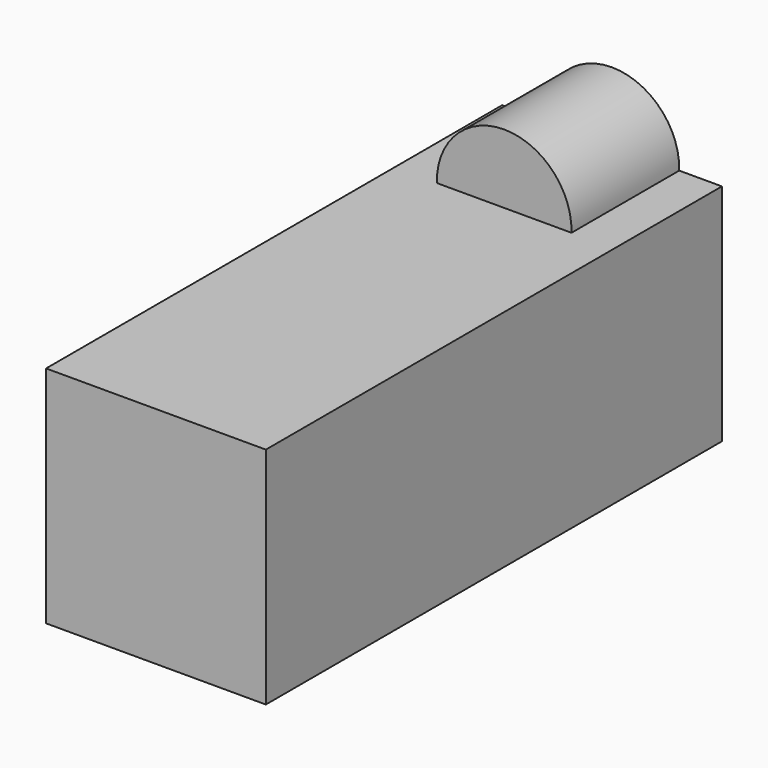
from build123d import *

# Parameters (mm, degrees)
F0_W     = 24.481318
F0_H     = 25
F1_DEPTH = 63.5
F2_R     = 7.5
F3_DEPTH = 15
F4_R     = 7.5
F5_DEPTH = 15


with BuildPart() as f1:
    # F0 (on Front) → F1 (new body)
    with BuildSketch(Plane.XZ):
        with Locations((12.240659, 12.5)):
            Rectangle(F0_W, F0_H)
    extrude(amount=F1_DEPTH)

    # F2 (on Front) → F3 (join)
    with BuildSketch(Plane.XZ):
        with Locations((12.228578, 25.193848)):
            Circle(F2_R)
    extrude(amount=F3_DEPTH)

    # F4 (on Front) → F5 (join)
    with BuildSketch(Plane.XZ):
        with Locations((8.243513, 0)):
            Circle(F4_R)
    extrude(amount=F5_DEPTH)


solid = f1.part
